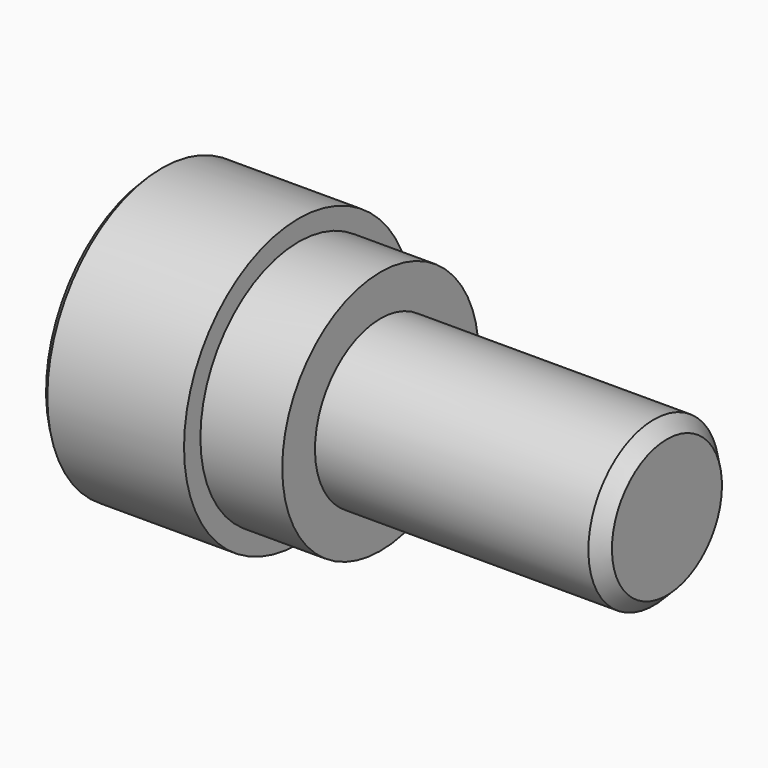
from build123d import *

# Parameters (mm, degrees)
F0_W     = 11.1125
F0_H     = 3.175
F5_DEPTH = 3.175
F6_SIZE  = 0.254
F7_SIZE  = 0.508


with BuildPart() as f1:
    # F0 (on Front) → F1 (revolve)
    with BuildSketch(Plane.XZ):
        Polygon((-1.5875, 0), (-1.5875, 4.7625), (-1.5875, 5.55625), (-7.14375, 5.55625), (-7.14375, 0), align=None)
    revolve(axis=Axis((2.778125, 0, 0), (1, 0, 0)))

    # F0 (on Front) → F2 (revolve)
    with BuildSketch(Plane.XZ):
        Polygon((1.5875, 3.175), (1.5875, 4.7625), (-1.5875, 4.7625), (-1.5875, 0), (1.5875, 0), align=None)
    revolve(axis=Axis((2.778125, 0, 0), (1, 0, 0)))

    # F0 (on Front) → F3 (revolve)
    with BuildSketch(Plane.XZ):
        with Locations((7.14375, 1.5875)):
            Rectangle(F0_W, F0_H)
    revolve(axis=Axis((2.778125, 0, 0), (1, 0, 0)))

    # F4 (on face) → F5 (cut)
    with BuildSketch(Plane(origin=(-7.14375, 0, 0), x_dir=(0, -1, 0), z_dir=(-1, 0, 0))):
        Polygon((1.833087, 0), (0.916544, 1.5875), (-0.916544, 1.5875), (-1.833087, 0), (-0.916544, -1.5875), (0.916544, -1.5875), align=None)
    extrude(amount=-F5_DEPTH, mode=Mode.SUBTRACT)

    # F6
    f6_edges = [f1.edges().sort_by_distance(p)[0] for p in [
        (-7.14375, 0, -5.55625),
    ]]
    chamfer(f6_edges, length=F6_SIZE)

    # F7
    f7_edges = [f1.edges().sort_by_distance(p)[0] for p in [
        (12.7, 0, -3.175),
    ]]
    chamfer(f7_edges, length=F7_SIZE)


solid = f1.part
